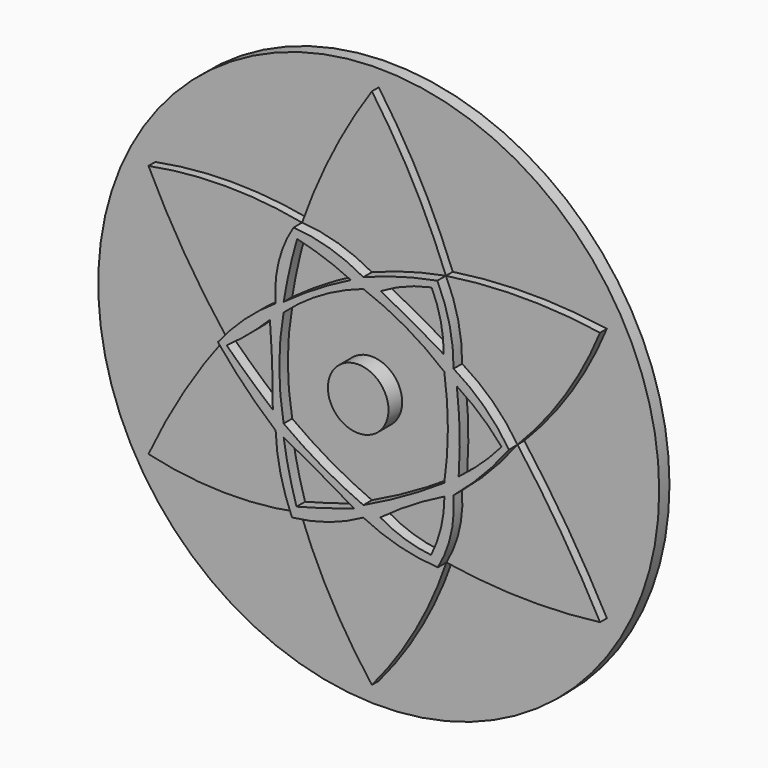
from build123d import *

# Parameters (mm, degrees)
F2_R     = 3.597318
F3_DEPTH = 4.572
F1_R     = 33.297868
F4_DEPTH = 1.524
F6_DEPTH = 2.286
F7_DEPTH = 1.016


with BuildPart() as f3:
    # F2 (on face) → F3 (new body)
    with BuildSketch(Plane.XZ):
        Circle(F2_R)
    extrude(amount=F3_DEPTH)

    # F1 (on Front) → F4 (join)
    with BuildSketch(Plane.XZ):
        Circle(F1_R)
    extrude(amount=F4_DEPTH)

    # F5 (on face) → F6 (join)
    with BuildSketch(Plane.XZ.offset(1.524)):
        with BuildLine():
            ThreePointArc((10.713429, 6.318242), (10.248964, 10.715615), (8.788303, 14.889233))
            ThreePointArc((8.788303, 14.889233), (4.333719, 13.860328), (0, 12.40402))
            ThreePointArc((0, 12.40402), (-3.998899, 14.133336), (-8.289627, 14.889233))
            ThreePointArc((-8.289627, 14.889233), (-10.051786, 10.753928), (-10.412228, 6.273299))
            ThreePointArc((-10.412228, 6.273299), (-14.092567, 3.413894), (-17.265329, 0))
            ThreePointArc((-17.265329, 0), (-14.001547, -3.668596), (-10.406789, -7.01353))
            ThreePointArc((-10.406789, -7.01353), (-9.830191, -11.331497), (-8.465515, -15.468521))
            ThreePointArc((-8.465515, -15.468521), (-4.093198, -14.52777), (0, -12.725577))
            ThreePointArc((0, -12.725577), (4.302612, -14.348925), (8.847156, -15.052379))
            ThreePointArc((8.847156, -15.052379), (10.398679, -11.127024), (10.702084, -6.917085))
            ThreePointArc((10.702084, -6.917085), (14.203553, -3.658977), (17.283723, 0))
            ThreePointArc((17.283723, 0), (14.361308, 3.536323), (10.713429, 6.318242))
        make_face()
        with BuildLine():
            ThreePointArc((-10.74901, -4.952658), (-13.534815, -2.529093), (-16.22518, 0))
            ThreePointArc((-16.22518, 0), (-13.56313, 2.052862), (-11.09127, 4.331163))
            ThreePointArc((-11.09127, 4.331163), (-10.819822, -0.307049), (-10.74901, -4.952658))
        make_face(mode=Mode.SUBTRACT)
        with BuildLine():
            ThreePointArc((-1.113919, -12.127829), (-4.506024, -13.201244), (-7.931484, -14.162923))
            ThreePointArc((-7.931484, -14.162923), (-8.823734, -10.821527), (-9.457804, -7.421674))
            ThreePointArc((-9.457804, -7.421674), (-5.253039, -9.716557), (-1.113919, -12.127829))
        make_face(mode=Mode.SUBTRACT)
        with BuildLine():
            ThreePointArc((9.610696, -5.973405), (4.908164, -8.877536), (0, -11.418739))
            ThreePointArc((0, -11.418739), (-4.882883, -8.963516), (-9.457804, -5.973405))
            ThreePointArc((-9.457804, -5.973405), (-9.979883, -0.165049), (-9.457804, 5.643307))
            ThreePointArc((-9.457804, 5.643307), (-5.012545, 8.890946), (0, 11.167321))
            ThreePointArc((0, 11.167321), (5.044159, 8.820798), (9.610696, 5.643307))
            ThreePointArc((9.610696, 5.643307), (10.039267, -0.165049), (9.610696, -5.973405))
        make_face(mode=Mode.SUBTRACT)
        with BuildLine():
            ThreePointArc((9.632519, -7.387693), (9.220737, -10.79398), (8.049564, -14.018993))
            ThreePointArc((8.049564, -14.018993), (4.925761, -13.364903), (2.01722, -12.050994))
            ThreePointArc((2.01722, -12.050994), (5.719103, -9.546625), (9.632519, -7.387693))
        make_face(mode=Mode.SUBTRACT)
        with BuildLine():
            ThreePointArc((11.104458, 4.606938), (13.937738, 2.51162), (16.409498, 0))
            ThreePointArc((16.409498, 0), (13.995151, -2.521496), (11.318372, -4.762447))
            ThreePointArc((11.318372, -4.762447), (11.437982, -0.072581), (11.104458, 4.606938))
        make_face(mode=Mode.SUBTRACT)
        with BuildLine():
            ThreePointArc((-9.457804, 6.745422), (-8.765935, 10.318411), (-7.858452, 13.842813))
            ThreePointArc((-7.858452, 13.842813), (-4.608306, 12.909868), (-1.483598, 11.617566))
            ThreePointArc((-1.483598, 11.617566), (-5.574191, 9.350874), (-9.457804, 6.745422))
        make_face(mode=Mode.SUBTRACT)
        with BuildLine():
            ThreePointArc((8.106259, 13.965921), (9.19576, 10.788913), (9.540202, 7.447992))
            ThreePointArc((9.540202, 7.447992), (5.829565, 9.586664), (2.058865, 11.617566))
            ThreePointArc((2.058865, 11.617566), (4.983842, 13.045962), (8.106259, 13.965921))
        make_face(mode=Mode.SUBTRACT)
    extrude(amount=F6_DEPTH)

    # F5 (on face) → F7 (join)
    with BuildSketch(Plane.XZ.offset(1.524)):
        with BuildLine():
            ThreePointArc((-10.412228, 6.273299), (-10.051786, 10.753928), (-8.289627, 14.889233))
            ThreePointArc((-8.289627, 14.889233), (-17.405207, 15.756847), (-26.520787, 14.889233))
            ThreePointArc((-26.520787, 14.889233), (-22.28618, 7.200243), (-17.265329, 0))
            ThreePointArc((-17.265329, 0), (-14.092567, 3.413894), (-10.412228, 6.273299))
        make_face()
        with BuildLine():
            ThreePointArc((0, 12.40402), (4.333719, 13.860328), (8.788303, 14.889233))
            ThreePointArc((8.788303, 14.889233), (4.902081, 23.371612), (0, 31.31032))
            ThreePointArc((0, 31.31032), (-4.677616, 23.368743), (-8.289627, 14.889233))
            ThreePointArc((-8.289627, 14.889233), (-3.998899, 14.133336), (0, 12.40402))
        make_face()
        with BuildLine():
            ThreePointArc((27.086085, 14.889233), (17.937194, 15.570442), (8.788303, 14.889233))
            ThreePointArc((8.788303, 14.889233), (10.248964, 10.715615), (10.713429, 6.318242))
            ThreePointArc((10.713429, 6.318242), (14.361308, 3.536323), (17.283723, 0))
            ThreePointArc((17.283723, 0), (22.902766, 6.97201), (27.086085, 14.889233))
        make_face()
        with BuildLine():
            ThreePointArc((27.086085, -15.368001), (22.47422, -7.499462), (17.283723, 0))
            ThreePointArc((17.283723, 0), (14.203553, -3.658977), (10.702084, -6.917085))
            ThreePointArc((10.702084, -6.917085), (10.398679, -11.127024), (8.847156, -15.052379))
            ThreePointArc((8.847156, -15.052379), (17.955268, -15.866193), (27.086085, -15.368001))
        make_face()
        with BuildLine():
            ThreePointArc((0, -30.730024), (5.16221, -23.308024), (8.847156, -15.052379))
            ThreePointArc((8.847156, -15.052379), (4.302612, -14.348925), (0, -12.725577))
            ThreePointArc((0, -12.725577), (-4.093198, -14.52777), (-8.465515, -15.468521))
            ThreePointArc((-8.465515, -15.468521), (-4.799827, -23.413825), (0, -30.730024))
        make_face()
        with BuildLine():
            ThreePointArc((-10.406789, -7.01353), (-14.001547, -3.668596), (-17.265329, 0))
            ThreePointArc((-17.265329, 0), (-22.318324, -7.35541), (-26.520787, -15.227773))
            ThreePointArc((-26.520787, -15.227773), (-17.506335, -16.336903), (-8.465515, -15.468521))
            ThreePointArc((-8.465515, -15.468521), (-9.830191, -11.331497), (-10.406789, -7.01353))
        make_face()
        with BuildLine():
            ThreePointArc((-9.457804, -7.421674), (-8.823734, -10.821527), (-7.931484, -14.162923))
            ThreePointArc((-7.931484, -14.162923), (-4.506024, -13.201244), (-1.113919, -12.127829))
            ThreePointArc((-1.113919, -12.127829), (-5.253039, -9.716557), (-9.457804, -7.421674))
        make_face()
        with BuildLine():
            ThreePointArc((2.01722, -12.050994), (4.925761, -13.364903), (8.049564, -14.018993))
            ThreePointArc((8.049564, -14.018993), (9.220737, -10.79398), (9.632519, -7.387693))
            ThreePointArc((9.632519, -7.387693), (5.719103, -9.546625), (2.01722, -12.050994))
        make_face()
        with BuildLine():
            ThreePointArc((-9.457804, -5.973405), (-4.882883, -8.963516), (0, -11.418739))
            ThreePointArc((0, -11.418739), (4.908164, -8.877536), (9.610696, -5.973405))
            ThreePointArc((9.610696, -5.973405), (10.039267, -0.165049), (9.610696, 5.643307))
            ThreePointArc((9.610696, 5.643307), (5.044159, 8.820798), (0, 11.167321))
            ThreePointArc((0, 11.167321), (-5.012545, 8.890946), (-9.457804, 5.643307))
            ThreePointArc((-9.457804, 5.643307), (-9.979883, -0.165049), (-9.457804, -5.973405))
        make_face()
        with BuildLine():
            ThreePointArc((11.318372, -4.762447), (13.995151, -2.521496), (16.409498, 0))
            ThreePointArc((16.409498, 0), (13.937738, 2.51162), (11.104458, 4.606938))
            ThreePointArc((11.104458, 4.606938), (11.437982, -0.072581), (11.318372, -4.762447))
        make_face()
        with BuildLine():
            ThreePointArc((-1.483598, 11.617566), (-4.608306, 12.909868), (-7.858452, 13.842813))
            ThreePointArc((-7.858452, 13.842813), (-8.765935, 10.318411), (-9.457804, 6.745422))
            ThreePointArc((-9.457804, 6.745422), (-5.574191, 9.350874), (-1.483598, 11.617566))
        make_face()
        with BuildLine():
            ThreePointArc((2.058865, 11.617566), (5.829565, 9.586664), (9.540202, 7.447992))
            ThreePointArc((9.540202, 7.447992), (9.19576, 10.788913), (8.106259, 13.965921))
            ThreePointArc((8.106259, 13.965921), (4.983842, 13.045962), (2.058865, 11.617566))
        make_face()
        with BuildLine():
            ThreePointArc((-11.09127, 4.331163), (-13.56313, 2.052862), (-16.22518, 0))
            ThreePointArc((-16.22518, 0), (-13.534815, -2.529093), (-10.74901, -4.952658))
            ThreePointArc((-10.74901, -4.952658), (-10.819822, -0.307049), (-11.09127, 4.331163))
        make_face()
    extrude(amount=F7_DEPTH)


solid = f3.part
